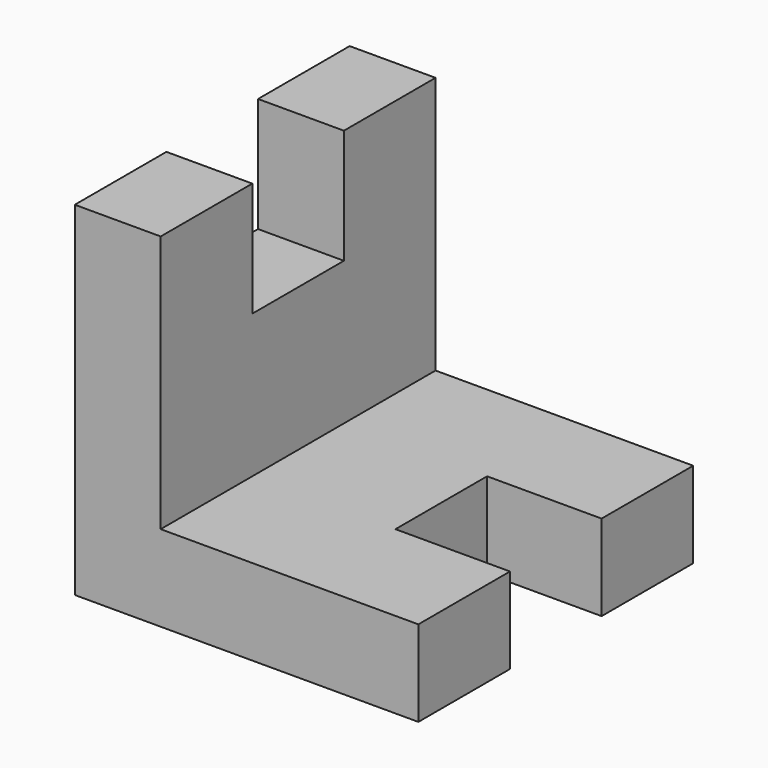
from build123d import *

# Parameters (mm, degrees)
F0_W     = 152.4
F0_H     = 152.4
F1_DEPTH = 152.4
F2_W     = 114.3
F2_H     = 114.3
F3_DEPTH = 152.4
F4_W     = 101.6
F4_H     = 50.8
F5_DEPTH = 127
F6_W     = 50.8
F6_H     = 101.6
F7_DEPTH = 127


with BuildPart() as f1:
    # F0 (on Front) → F1 (new body)
    with BuildSketch(Plane.XZ):
        with Locations((76.2, 76.2)):
            Rectangle(F0_W, F0_H)
    extrude(amount=F1_DEPTH)

    # F2 (on face) → F3 (cut)
    with BuildSketch(Plane.XZ.offset(152.4)):
        with Locations((95.25, 95.25)):
            Rectangle(F2_W, F2_H)
    extrude(amount=-F3_DEPTH, mode=Mode.SUBTRACT)

    # F4 (on face) → F5 (cut)
    with BuildSketch(Plane.XY.offset(38.1)):
        with Locations((152.4, -76.2)):
            Rectangle(F4_W, F4_H)
    extrude(amount=-F5_DEPTH, mode=Mode.SUBTRACT)

    # F6 (on face) → F7 (cut)
    with BuildSketch(Plane.YZ.offset(38.1)):
        with Locations((-76.2, 152.4)):
            Rectangle(F6_W, F6_H)
    extrude(amount=-F7_DEPTH, mode=Mode.SUBTRACT)


solid = f1.part
